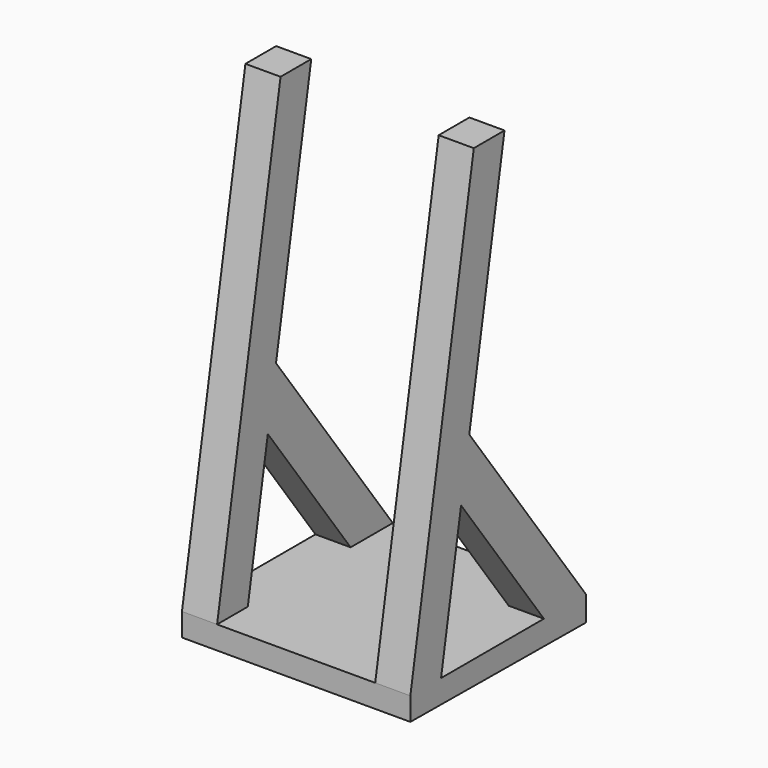
from build123d import *

# Parameters (mm, degrees)
F1_DEPTH = 16.51
F2_DEPTH = 5.08


with BuildPart() as f1:
    # F0 (on Right) → F1 (new body)
    with BuildSketch(Plane.YZ):
        Polygon((-10.969255, -8.832134), (-16.518005, -8.832134), (-16.518005, -12.155996), (15.231995, -12.41384), (15.231995, -8.832134), (7.611995, -8.832134), align=None)
    extrude(amount=F1_DEPTH)

    # F0 (on Right) → F2 (join)
    with BuildSketch(Plane.YZ):
        Polygon((-5.86939, 20.09064), (-7.352562, 11.67915), (7.611995, -8.832134), (15.231995, -8.832134), align=None)
        Polygon((-5.050279, 56.20457), (-16.518005, -8.832134), (-10.969255, -8.832134), (-7.352562, 11.67915), (-5.86939, 20.09064), (0.498471, 56.20457), align=None)
    extrude(amount=F2_DEPTH)

    # F3: F1 across face


with BuildPart() as f1_1:
    add(f1.part)
    add(f1.part.mirror(Plane(origin=(16.51, -0.445421, -10.559328), x_dir=(0, 1, 0), z_dir=(1, 0, 0))))


solid = f1_1.part
